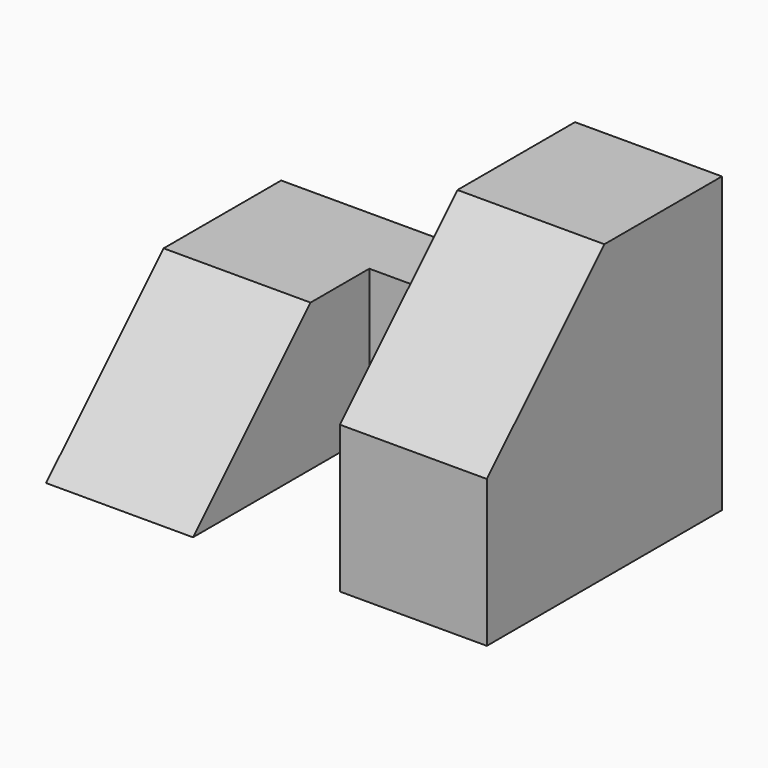
from build123d import *

# Parameters (mm, degrees)
F1_DEPTH = 12.7
F3_DEPTH = 25.4
F4_W     = 12.7
F4_H     = 19.05
F5_DEPTH = 25.401


with BuildPart() as f1:
    # F0 (on Right) → F1 (new body)
    with BuildSketch(Plane.YZ):
        Polygon((0, 12.7), (0, 0), (25.4, 0), (25.4, 25.4), (12.7, 25.4), align=None)
    extrude(amount=F1_DEPTH)

    # F2 (on Right) → F3 (join)
    with BuildSketch(Plane.YZ):
        Polygon((12.7, 12.7), (0, 0), (25.4, 0), (25.4, 12.7), align=None)
    extrude(amount=-F3_DEPTH)

    # F4 (on Top) → F5 (cut, through all)
    with BuildSketch(Plane.XY):
        with Locations((-6.35, 9.525)):
            Rectangle(F4_W, F4_H)
    extrude(amount=F5_DEPTH, mode=Mode.SUBTRACT)


solid = f1.part
